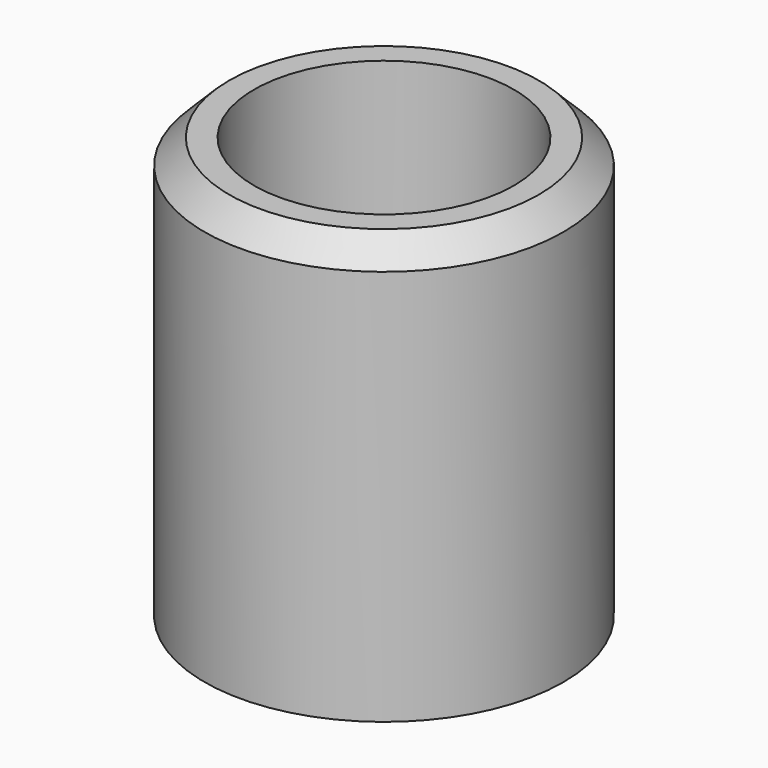
from build123d import *

# Parameters (mm, degrees)
SKETCH_R     = 7.25
SKETCH_R_2   = 5.25
PAD_DEPTH    = 17
CHAMFER_SIZE = 1


with BuildPart() as part:
    # Sketch → Pad (new body)
    with BuildSketch(Plane.XY):
        Circle(SKETCH_R)
        Circle(SKETCH_R_2, mode=Mode.SUBTRACT)
    extrude(amount=PAD_DEPTH)

    # Chamfer
    chamfer_edges = [part.edges().sort_by_distance(p)[0] for p in [
        (-7.25, 0, 17),
    ]]
    chamfer(chamfer_edges, length=CHAMFER_SIZE)


solid = part.part
